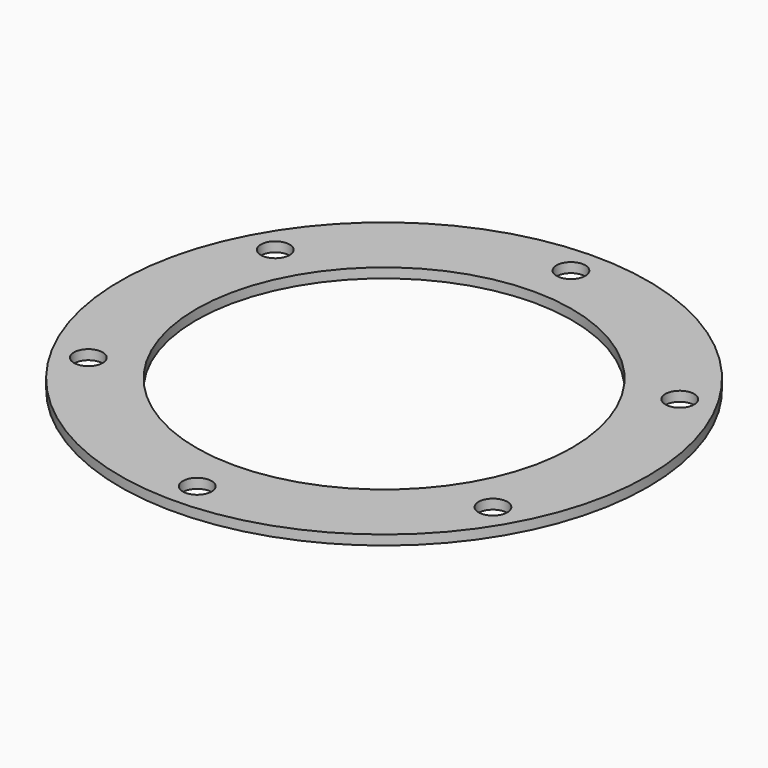
from build123d import *

# Parameters (mm, degrees)
F0_R     = 41.275
F1_DEPTH = 1.524
F2_R     = 2.2479
F3_DEPTH = 1.524
F4_R     = 29.3751
F5_DEPTH = 1.524


with BuildPart() as f1:
    # F0 (on Top) → F1 (new body)
    with BuildSketch(Plane.XY):
        Circle(F0_R)
    extrude(amount=F1_DEPTH)

    # F2 (on face) → F3 (cut, through all)
    with BuildSketch(Plane.XY.offset(1.524)):
        with Locations((0, 36.5252)):
            Circle(F2_R)
        with Locations((-31.631751, 18.2626)):
            Circle(F2_R)
        with Locations((-31.631751, -18.2626)):
            Circle(F2_R)
        with Locations((0, -36.5252)):
            Circle(F2_R)
        with Locations((31.631751, -18.2626)):
            Circle(F2_R)
        with Locations((31.631751, 18.2626)):
            Circle(F2_R)
    extrude(amount=-F3_DEPTH, mode=Mode.SUBTRACT)

    # F4 (on face) → F5 (cut, through all)
    with BuildSketch(Plane.XY.offset(1.524)):
        Circle(F4_R)
    extrude(amount=-F5_DEPTH, mode=Mode.SUBTRACT)


solid = f1.part
